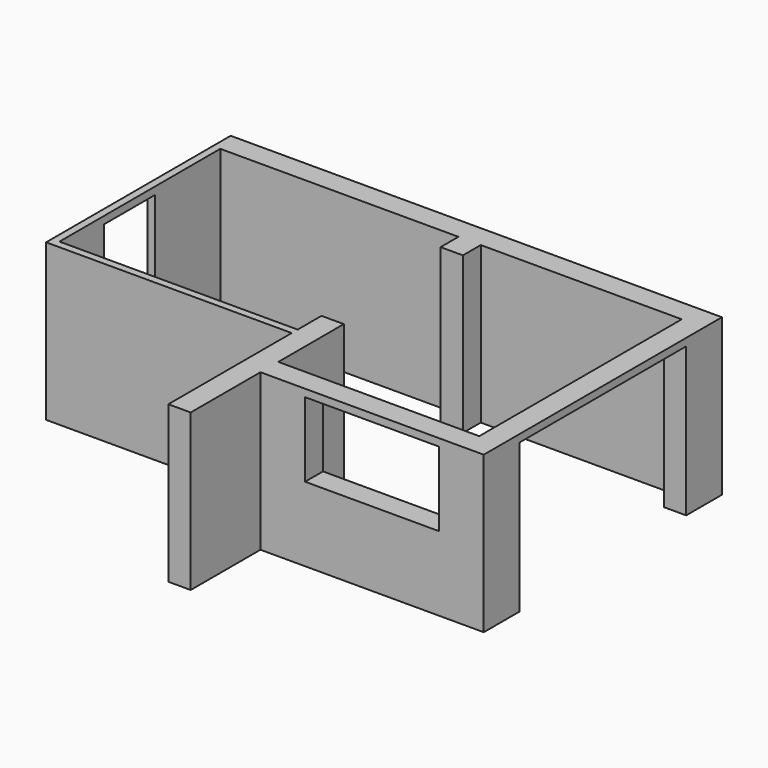
from build123d import *

# Parameters (mm, degrees)
F0_W     = 3200
F0_H     = 2700
F1_DEPTH = 2100
F2_W     = 300
F2_H     = 2000
F3_DEPTH = 3450
F4_W     = 2800
F4_H     = 2000
F5_DEPTH = 880
F6_W     = 1800
F6_H     = 1000
F7_DEPTH = 700
F8_W     = 850
F8_H     = 2000
F9_DEPTH = 620


with BuildPart() as f1:
    # F0 (on Top) → F1 (new body)
    with BuildSketch(Plane.XY):
        Polygon((1709.408105, 1415.863724), (-1890.591895, 1415.863724), (-1890.591895, -1684.136276), (1409.408105, -1684.136276), (1709.408105, -1684.136276), (1709.408105, 1115.863724), align=None)
        with Locations((-190.591895, -234.136276)):
            Rectangle(F0_W, F0_H, mode=Mode.SUBTRACT)
        Polygon((4709.408105, 1415.863724), (1709.408105, 1415.863724), (1709.408105, 1115.863724), (4409.408105, 1115.863724), (4409.408105, -2284.136276), (1709.408105, -2284.136276), (1709.408105, -2584.136276), (4709.408105, -2584.136276), align=None)
        Polygon((1709.408105, -1684.136276), (1409.408105, -1684.136276), (1409.408105, -3755.577326), (1709.408105, -3755.577326), (1709.408105, -2584.136276), (1709.408105, -2284.136276), align=None)
    extrude(amount=F1_DEPTH)

    # F2 (on face) → F3 (cut)
    with BuildSketch(Plane.XY.offset(2100)):
        with Locations((1559.408105, -184.136276)):
            Rectangle(F2_W, F2_H)
    extrude(amount=-F3_DEPTH, mode=Mode.SUBTRACT)

    # F4 (on face) → F5 (cut)
    with BuildSketch(Plane.YZ.offset(4709.408105)):
        with Locations((-584.136276, 1000)):
            Rectangle(F4_W, F4_H)
    extrude(amount=-F5_DEPTH, mode=Mode.SUBTRACT)

    # F6 (on face) → F7 (cut)
    with BuildSketch(Plane.XZ.offset(2584.136276)):
        with Locations((3209.408105, 1500)):
            Rectangle(F6_W, F6_H)
    extrude(amount=-F7_DEPTH, mode=Mode.SUBTRACT)

    # F8 (on face) → F9 (cut)
    with BuildSketch(Plane.YZ.offset(-1790.591895)):
        with Locations((-409.136276, 1000)):
            Rectangle(F8_W, F8_H)
    extrude(amount=-F9_DEPTH, mode=Mode.SUBTRACT)


solid = f1.part
